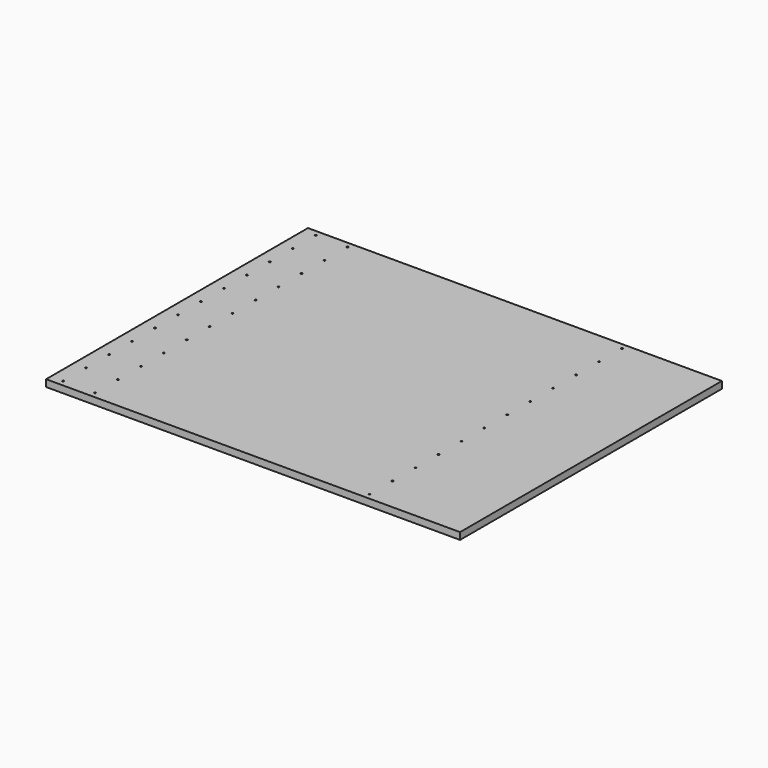
from build123d import *

# Parameters (mm, degrees)
F0_W     = 1500
F0_H     = 1186
F1_DEPTH = 25
F2_R     = 3
F3_DEPTH = 25


with BuildPart() as f1:
    # F0 (on Top) → F1 (new body)
    with BuildSketch(Plane.XY):
        with Locations((750, 593)):
            Rectangle(F0_W, F0_H)
    extrude(amount=-F1_DEPTH)

    # F2 (on face) → F3 (cut)
    with BuildSketch(Plane.XY):
        with Locations((45, 21)):
            Circle(F2_R)
        with Locations((45, 125)):
            Circle(F2_R)
        with Locations((45, 229)):
            Circle(F2_R)
        with Locations((45, 333)):
            Circle(F2_R)
        with Locations((45, 437)):
            Circle(F2_R)
        with Locations((45, 541)):
            Circle(F2_R)
        with Locations((45, 645)):
            Circle(F2_R)
        with Locations((45, 749)):
            Circle(F2_R)
        with Locations((45, 853)):
            Circle(F2_R)
        with Locations((45, 957)):
            Circle(F2_R)
        with Locations((45, 1061)):
            Circle(F2_R)
        with Locations((45, 1165)):
            Circle(F2_R)
        with Locations((160, 21)):
            Circle(F2_R)
        with Locations((160, 125)):
            Circle(F2_R)
        with Locations((160, 229)):
            Circle(F2_R)
        with Locations((160, 333)):
            Circle(F2_R)
        with Locations((160, 437)):
            Circle(F2_R)
        with Locations((160, 541)):
            Circle(F2_R)
        with Locations((160, 645)):
            Circle(F2_R)
        with Locations((160, 749)):
            Circle(F2_R)
        with Locations((160, 853)):
            Circle(F2_R)
        with Locations((160, 957)):
            Circle(F2_R)
        with Locations((160, 1061)):
            Circle(F2_R)
        with Locations((160, 1165)):
            Circle(F2_R)
        with Locations((1155, 1165)):
            Circle(F2_R)
        with Locations((1155, 1061)):
            Circle(F2_R)
        with Locations((1155, 957)):
            Circle(F2_R)
        with Locations((1155, 749)):
            Circle(F2_R)
        with Locations((1155, 541)):
            Circle(F2_R)
        with Locations((1155, 333)):
            Circle(F2_R)
        with Locations((1155, 125)):
            Circle(F2_R)
        with Locations((1155, 853)):
            Circle(F2_R)
        with Locations((1155, 645)):
            Circle(F2_R)
        with Locations((1155, 437)):
            Circle(F2_R)
        with Locations((1155, 229)):
            Circle(F2_R)
        with Locations((1155, 21)):
            Circle(F2_R)
    extrude(amount=-F3_DEPTH, mode=Mode.SUBTRACT)


solid = f1.part
